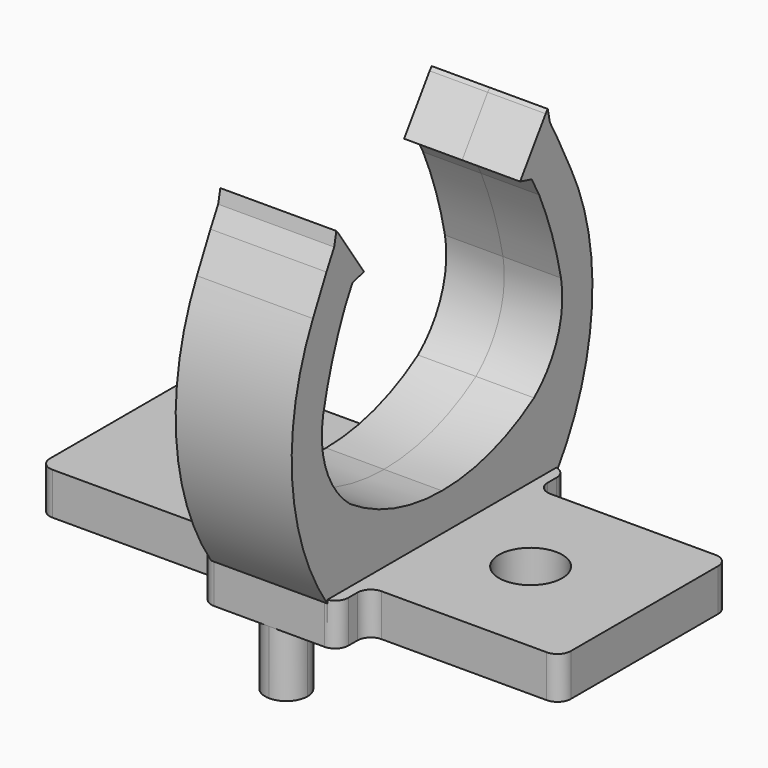
from build123d import *

# Parameters (mm, degrees)
F0_R     = 2.9972
F0_R_2   = 3
F1_DEPTH = 4
F4_DEPTH = 5.5
F5_DEPTH = 5.5
F7_DEPTH = 6


with BuildPart() as f1:
    # F0 (on Top) → F1 (new body)
    with BuildSketch(Plane.XY):
        with BuildLine():
            Line((-25.6610898641, 24.5893044506), (-41.3210898641, 24.5893044506))
            ThreePointArc((-41.3210898641, 24.5893044506), (-42.2191154762, 24.2173300627), (-42.5910898641, 23.3193044506))
            Line((-42.5910898641, 23.3193044506), (-42.5910898641, 5.8593044506))
            ThreePointArc((-42.5910898641, 5.8593044506), (-42.2191154762, 4.9612788385), (-41.3210898641, 4.5893044506))
            Line((-41.3210898641, 4.5893044506), (-25.6610898641, 4.5893044506))
            ThreePointArc((-25.6610898641, 4.5893044506), (-24.763064252, 4.2173300627), (-24.3910898641, 3.3193044506))
            Line((-24.3910898641, 3.3193044506), (-24.3910898641, 2.2593044506))
            ThreePointArc((-24.3910898641, 2.2593044506), (-24.0191154762, 1.3612788385), (-23.1210898641, 0.9893044506))
            Line((-23.1210898641, 0.9893044506), (-17.8910898641, 0.9893044506))
            Line((-17.8910898641, 0.9893044506), (-17.8910898641, 28.1893044506))
            Line((-17.8910898641, 28.1893044506), (-23.1210898641, 28.1893044506))
            ThreePointArc((-23.1210898641, 28.1893044506), (-24.0191154762, 27.8173300627), (-24.3910898641, 26.9193044506))
            Line((-24.3910898641, 26.9193044506), (-24.3910898641, 25.8593044506))
            ThreePointArc((-24.3910898641, 25.8593044506), (-24.763064252, 24.9612788385), (-25.6610898641, 24.5893044506))
        make_face()
        with Locations((-31.7938898641, 14.5969044506)):
            Circle(F0_R, mode=Mode.SUBTRACT)
        with BuildLine():
            Line((-12.6610898641, 28.1893044506), (-17.8910898641, 28.1893044506))
            Line((-17.8910898641, 28.1893044506), (-17.8910898641, 0.9893044506))
            Line((-17.8910898641, 0.9893044506), (-12.6610898641, 0.9893044506))
            ThreePointArc((-12.6610898641, 0.9893044506), (-11.763064252, 1.3612788385), (-11.3910898641, 2.2593044506))
            Line((-11.3910898641, 2.2593044506), (-11.3910898641, 3.3193044506))
            ThreePointArc((-11.3910898641, 3.3193044506), (-11.0191154762, 4.2173300627), (-10.1210898641, 4.5893044506))
            Line((-10.1210898641, 4.5893044506), (5.5389101359, 4.5893044506))
            ThreePointArc((5.5389101359, 4.5893044506), (6.436935748, 4.9612788385), (6.8089101359, 5.8593044506))
            Line((6.8089101359, 5.8593044506), (6.8089101359, 23.3193044506))
            ThreePointArc((6.8089101359, 23.3193044506), (6.436935748, 24.2173300627), (5.5389101359, 24.5893044506))
            Line((5.5389101359, 24.5893044506), (-10.1210898641, 24.5893044506))
            ThreePointArc((-10.1210898641, 24.5893044506), (-11.0191154762, 24.9612788385), (-11.3910898641, 25.8593044506))
            Line((-11.3910898641, 25.8593044506), (-11.3910898641, 26.9193044506))
            ThreePointArc((-11.3910898641, 26.9193044506), (-11.763064252, 27.8173300627), (-12.6610898641, 28.1893044506))
        make_face()
        with Locations((-3.9910898641, 14.5893044506)):
            Circle(F0_R_2, mode=Mode.SUBTRACT)
    extrude(amount=F1_DEPTH)

    # F3 (on offset) → F4 (join)
    with BuildSketch(Plane.YZ.offset(-17.907)):
        with BuildLine():
            Line((1.0103175882, 3.6736566108), (1.0103175882, 2.094399018))
            Line((1.0103175882, 2.094399018), (14.6140140714, 2.094399018))
            Line((14.6140140714, 2.094399018), (14.6140140714, 7.5688682606))
            ThreePointArc((14.6140140714, 7.5688682606), (8.9162605334, 8.4182832346), (3.7140140714, 10.8926584944))
            ThreePointArc((3.7140140714, 10.8926584944), (0.9193465512, 14.8041987102), (0.5140140714, 19.594399018))
            ThreePointArc((0.5140140714, 19.594399018), (1.5880995617, 23.6670004727), (3.1097049359, 27.594399018))
            Line((3.1097049359, 27.594399018), (3.9924437818, 29.2461096572))
            Line((3.9924437818, 29.2461096572), (5.3628443275, 29.6174231917))
            Line((5.3628443275, 29.6174231917), (2.3336572567, 34.0493805554))
            Line((2.3336572567, 34.0493805554), (2.0878820214, 34.3491211534))
            Line((2.0878820214, 34.3491211534), (1.8287835856, 33.1069578199))
            Line((1.8287835856, 33.1069578199), (0.9140140714, 31.3994027674))
            Line((0.9140140714, 31.3994027674), (-0.6859859286, 28.1615126878))
            ThreePointArc((-0.6859859286, 28.1615126878), (-3.1482462474, 15.6882683861), (1.0103175882, 3.6736566108))
        make_face()
        with BuildLine():
            Line((14.6140140714, 7.5688682606), (14.6140140714, 2.094399018))
            Line((14.6140140714, 2.094399018), (28.2177105546, 2.094399018))
            Line((28.2177105546, 2.094399018), (28.2177105546, 3.6736566108))
            ThreePointArc((28.2177105546, 3.6736566108), (32.3762743902, 15.6882683861), (29.9140140714, 28.1615126878))
            Line((29.9140140714, 28.1615126878), (28.3140140714, 31.3994027674))
            Line((28.3140140714, 31.3994027674), (27.3992445572, 33.1069578199))
            Line((27.3992445572, 33.1069578199), (27.1401461214, 34.3491211534))
            Line((27.1401461214, 34.3491211534), (26.8943708861, 34.0493805554))
            Line((26.8943708861, 34.0493805554), (23.8651838154, 29.6174231917))
            Line((23.8651838154, 29.6174231917), (25.2355843611, 29.2461096572))
            Line((25.2355843611, 29.2461096572), (26.1183232069, 27.594399018))
            ThreePointArc((26.1183232069, 27.594399018), (27.6399285811, 23.6670004727), (28.7140140714, 19.594399018))
            ThreePointArc((28.7140140714, 19.594399018), (28.3086815916, 14.8041987102), (25.5140140714, 10.8926584944))
            ThreePointArc((25.5140140714, 10.8926584944), (20.3117676094, 8.4182832346), (14.6140140714, 7.5688682606))
        make_face()
    extrude(amount=F4_DEPTH)

    # F5 (add): a face of the model
    f5_faces = [f1.faces().sort_by_distance(p)[0] for p in [
        (-17.907, 0.5449617654, 29.5675053748),
    ]]
    extrude(f5_faces, amount=F5_DEPTH)

    # F6 (on face) → F7 (join)
    with BuildSketch(Plane.XY):
        with BuildLine():
            ThreePointArc((-17.8910898641, 0.9894171115), (-16.4631735111, 1.5676054433), (-15.8698617965, 2.9893044506))
            ThreePointArc((-15.8698617965, 2.9893044506), (-16.4631735111, 4.411003458), (-17.8910898641, 4.9891917898))
            Line((-17.8910898641, 4.9891917898), (-17.8910898641, 0.9894171115))
        make_face()
        with BuildLine():
            Line((-17.8910898641, 0.9894171115), (-17.8910898641, 4.9891917898))
            ThreePointArc((-17.8910898641, 4.9891917898), (-19.8698617965, 2.9893044506), (-17.8910898641, 0.9894171115))
        make_face()
    extrude(amount=-F7_DEPTH)


solid = f1.part
